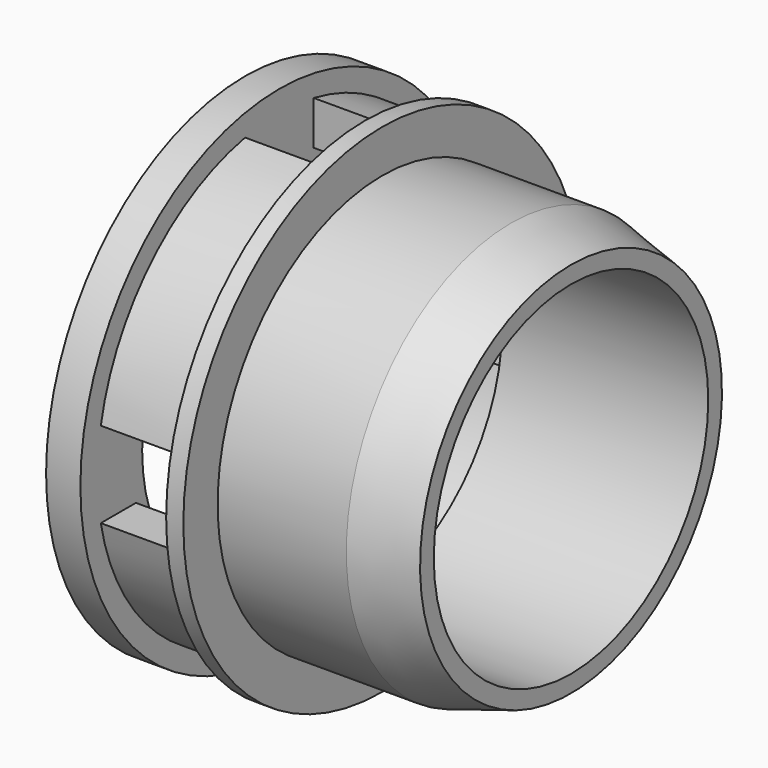
from build123d import *

# Parameters (mm, degrees)
F2_W          = 10
F2_H          = 10
F3_DEPTH      = 100
F3_DEPTH_BACK = 100
F4_W          = 10
F4_H          = 10
F5_DEPTH      = 50
F5_DEPTH_BACK = 50


with BuildPart() as f1:
    # F0 (on Front) → F1 (revolve)
    with BuildSketch(Plane.XZ):
        Polygon((0, 29), (0, 20), (4, 20), (4, 21.5), (14, 21.5), (14, 20), (38, 20), (38, 22), (31, 24), (16, 24), (16, 29), (14, 29), (14, 26.5), (4, 26.5), (4, 29), align=None)
    revolve(axis=Axis((36.8667048862, 0, 0), (1, 0, 0)))

    # F2 (on Front) → F3 (cut, two sides)
    with BuildSketch(Plane.XZ) as f3_sk:
        with Locations((9, 0)):
            Rectangle(F2_W, F2_H)
    extrude(amount=-F3_DEPTH, mode=Mode.SUBTRACT)
    extrude(f3_sk.sketch, amount=F3_DEPTH_BACK, mode=Mode.SUBTRACT)

    # F4 (on Top) → F5 (cut, two sides)
    with BuildSketch(Plane.XY) as f5_sk:
        with Locations((9, 0)):
            Rectangle(F4_W, F4_H)
    extrude(amount=-F5_DEPTH, mode=Mode.SUBTRACT)
    extrude(f5_sk.sketch, amount=F5_DEPTH_BACK, mode=Mode.SUBTRACT)


solid = f1.part
